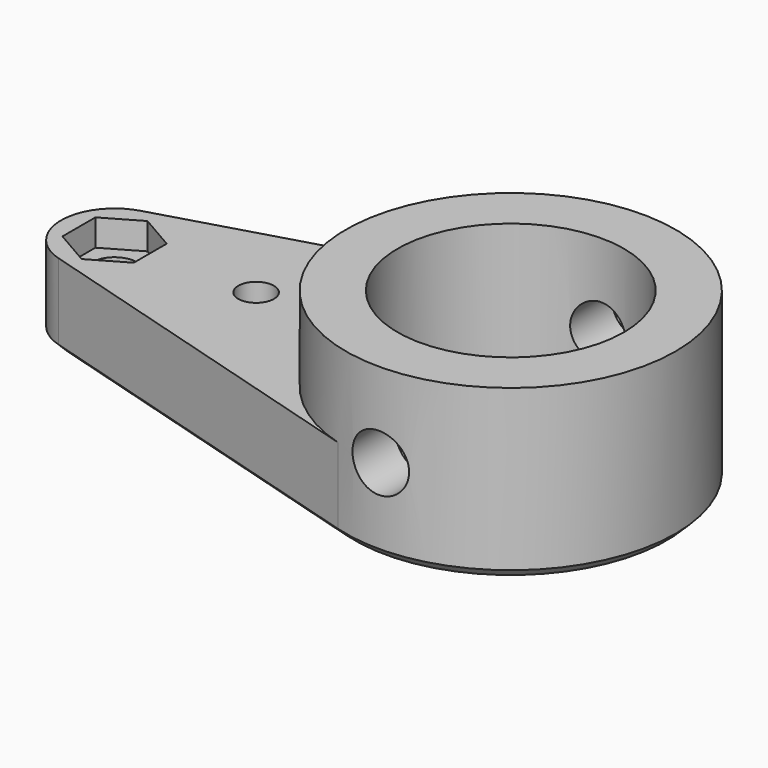
from build123d import *

# Parameters (mm, degrees)
SKETCH_R          = 12.7
SKETCH_R_2        = 2.5
SKETCH_R_3        = 2
PAD_DEPTH         = 9.525
SKETCH001_R       = 18.5
SKETCH001_R_2     = 12.7
PAD001_DEPTH      = 19
SKETCH002_R       = 3.175
POCKET_DEPTH      = 18.501
POCKET_DEPTH_BACK = -18.501
POCKET001_DEPTH   = 3
CHAMFER_SIZE      = 1


with BuildPart() as part:
    # Sketch (on XY_Plane of Origin) → Pad (new body)
    with BuildSketch(Plane.XY):
        with BuildLine():
            ThreePointArc((-46.137289, 5.757869), (-50.45, 0), (-46.137289, -5.757869))
            Line((-46.137289, -5.757869), (-5.202475, -17.753429))
            ThreePointArc((-5.202475, -17.753429), (18.5, 0), (-5.202475, 17.753429))
            Line((-46.137289, 5.757869), (-5.202475, 17.753429))
        make_face()
        Circle(SKETCH_R, mode=Mode.SUBTRACT)
        with Locations((-44.45, 0)):
            Circle(SKETCH_R_2, mode=Mode.SUBTRACT)
        with Locations((-28.57, 0)):
            Circle(SKETCH_R_3, mode=Mode.SUBTRACT)
    extrude(amount=PAD_DEPTH)

    # Sketch001 (on XY_Plane of Origin) → Pad001 (join)
    with BuildSketch(Plane.XY):
        Circle(SKETCH001_R)
        Circle(SKETCH001_R_2, mode=Mode.SUBTRACT)
    extrude(amount=PAD001_DEPTH)

    # Sketch002 (on XZ_Plane of Origin) → Pocket (cut, two sides)
    with BuildSketch(Plane.XZ) as pocket_sk:
        with Locations((0, 9.5)):
            Circle(SKETCH002_R)
    extrude(amount=-POCKET_DEPTH, mode=Mode.SUBTRACT)
    extrude(pocket_sk.sketch, amount=-POCKET_DEPTH_BACK, mode=Mode.SUBTRACT)

    # Sketch003 (on XY_Plane of Origin) → Pocket001 (cut)
    with BuildSketch(Plane.XY.offset(9.53)):
        Polygon((-44.45, 4.618802), (-48.45, 2.309401), (-48.45, -2.309401), (-44.45, -4.618802), (-40.45, -2.309401), (-40.45, 2.309401), align=None)
    extrude(amount=-POCKET001_DEPTH, mode=Mode.SUBTRACT)

    # Chamfer
    chamfer_edges = [part.edges().sort_by_distance(p)[0] for p in [
        (-25.669882, -11.755649, 0),
    ]]
    chamfer(chamfer_edges, length=CHAMFER_SIZE)


solid = part.part
